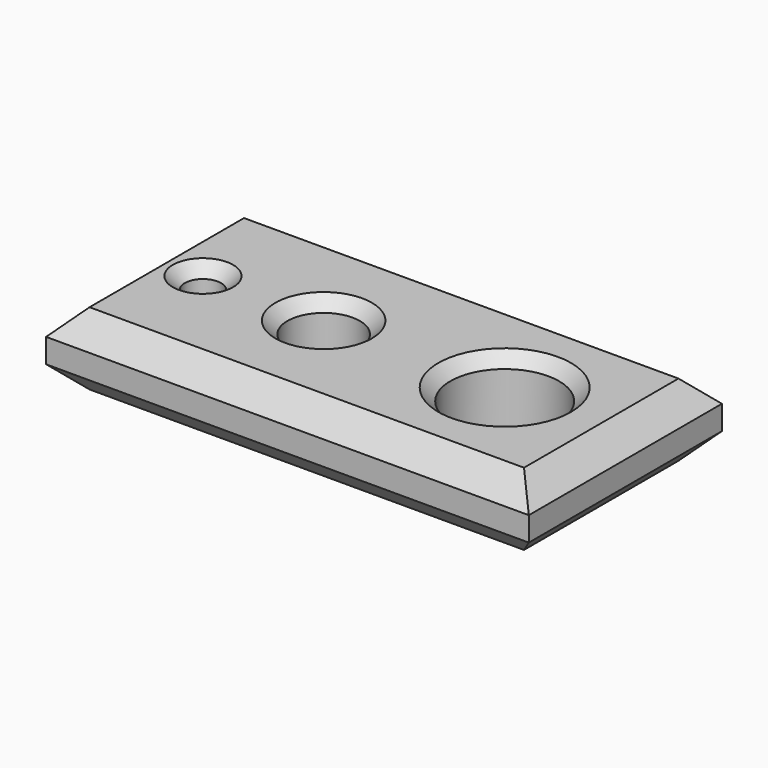
from build123d import *

# Parameters (mm, degrees)
F0_W     = 200
F0_H     = 100
F0_R     = 7.5
F0_R_2   = 15
F0_R_3   = 22.5
F1_DEPTH = 30
F2_SIZE  = 10
F3_SIZE  = 5


with BuildPart() as f1:
    # F0 (on Top) → F1 (new body)
    with BuildSketch(Plane.XY):
        with Locations((-100, 50)):
            Rectangle(F0_W, F0_H)
        with Locations((-175, 50)):
            Circle(F0_R, mode=Mode.SUBTRACT)
        with Locations((-125, 50)):
            Circle(F0_R_2, mode=Mode.SUBTRACT)
        with Locations((-50, 50)):
            Circle(F0_R_3, mode=Mode.SUBTRACT)
    extrude(amount=F1_DEPTH)

    # F2
    f2_edges = [f1.edges().sort_by_distance(p)[0] for p in [
        (-200, 50, 30),
        (-200, 50, 0),
        (-100, 100, 0),
        (-100, 100, 30),
        (-100, 0, 0),
        (-100, 0, 30),
        (0, 50, 30),
        (0, 50, 0),
    ]]
    chamfer(f2_edges, length=F2_SIZE)

    # F3
    f3_edges = [f1.edges().sort_by_distance(p)[0] for p in [
        (-140, 50, 30),
        (-182.5, 50, 30),
        (-72.5, 50, 30),
    ]]
    chamfer(f3_edges, length=F3_SIZE)


solid = f1.part
